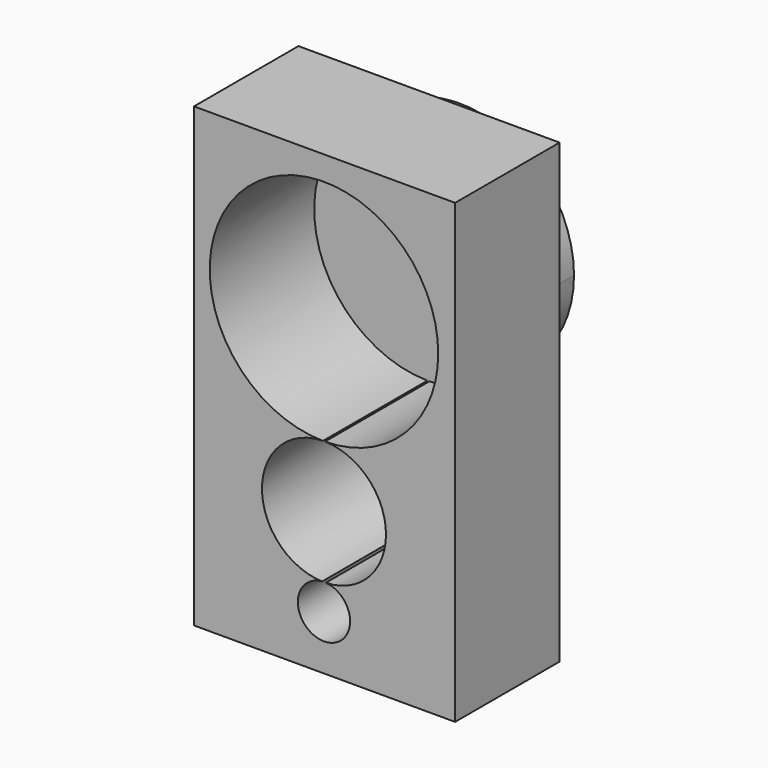
from build123d import *

# Parameters (mm, degrees)
F0_W     = 50.8
F0_H     = 88.9
F1_DEPTH = 25.4
F0_R     = 1.5875
F2_DEPTH = 7.62
F3_DEPTH = 7.62
F4_DEPTH = 7.62


with BuildPart() as f1:
    # F0 (on Front) → F1 (new body)
    with BuildSketch(Plane.XZ):
        with Locations((0.113329, 30.922893)):
            Rectangle(F0_W, F0_H)
        with BuildLine():
            ThreePointArc((-0.196195, 26.243829), (-15.645929, 64.252624), (22.225, 48.467963))
            ThreePointArc((22.225, 48.467963), (15.784661, 32.822033), (0.196195, 26.243829))
            ThreePointArc((0.196195, 26.243829), (8.600329, 22.642018), (12.065, 14.180424))
            ThreePointArc((12.065, 14.180424), (8.6572, 5.777025), (0.358889, 2.120763))
            ThreePointArc((0.358889, 2.120763), (3.716824, 0.516348), (5.08, -2.946544))
            ThreePointArc((5.08, -2.946544), (-3.462892, -6.663368), (-0.358889, 2.120763))
            ThreePointArc((-0.358889, 2.120763), (-12.064726, 14.261793), (-0.196195, 26.243829))
        make_face(mode=Mode.SUBTRACT)
    extrude(amount=F1_DEPTH)


with BuildPart() as f2:
    # F0 (on Front) → F2 (new body)
    with BuildSketch(Plane.XZ):
        with BuildLine():
            ThreePointArc((0.196195, 26.243829), (15.784661, 32.822033), (22.225, 48.467963))
            ThreePointArc((22.225, 48.467963), (-15.645929, 64.252624), (-0.196195, 26.243829))
            ThreePointArc((-0.196195, 26.243829), (0, 26.245424), (0.196195, 26.243829))
        make_face()
        with Locations((0, 48.467963)):
            Circle(F0_R, mode=Mode.SUBTRACT)
    extrude(amount=-F2_DEPTH)


with BuildPart() as f3:
    # F0 (on Front) → F3 (new body)
    with BuildSketch(Plane.XZ):
        with BuildLine():
            ThreePointArc((0.196195, 26.243829), (0, 26.242963), (-0.196195, 26.243829))
            ThreePointArc((-0.196195, 26.243829), (-12.064726, 14.261793), (-0.358889, 2.120763))
            ThreePointArc((-0.358889, 2.120763), (0, 2.133456), (0.358889, 2.120763))
            ThreePointArc((0.358889, 2.120763), (8.6572, 5.777025), (12.065, 14.180424))
            ThreePointArc((12.065, 14.180424), (8.600329, 22.642018), (0.196195, 26.243829))
        make_face()
        with Locations((0, 14.180424)):
            Circle(F0_R, mode=Mode.SUBTRACT)
    extrude(amount=-F3_DEPTH)


with BuildPart() as f4:
    # F0 (on Front) → F4 (new body)
    with BuildSketch(Plane.XZ):
        with BuildLine():
            ThreePointArc((0.358889, 2.120763), (0, 2.115424), (-0.358889, 2.120763))
            ThreePointArc((-0.358889, 2.120763), (-3.462892, -6.663368), (5.08, -2.946544))
            ThreePointArc((5.08, -2.946544), (3.716824, 0.516348), (0.358889, 2.120763))
        make_face()
        with Locations((0, -2.946544)):
            Circle(F0_R, mode=Mode.SUBTRACT)
    extrude(amount=-F4_DEPTH)


solid = Compound([f1.part, f2.part, f3.part, f4.part])
